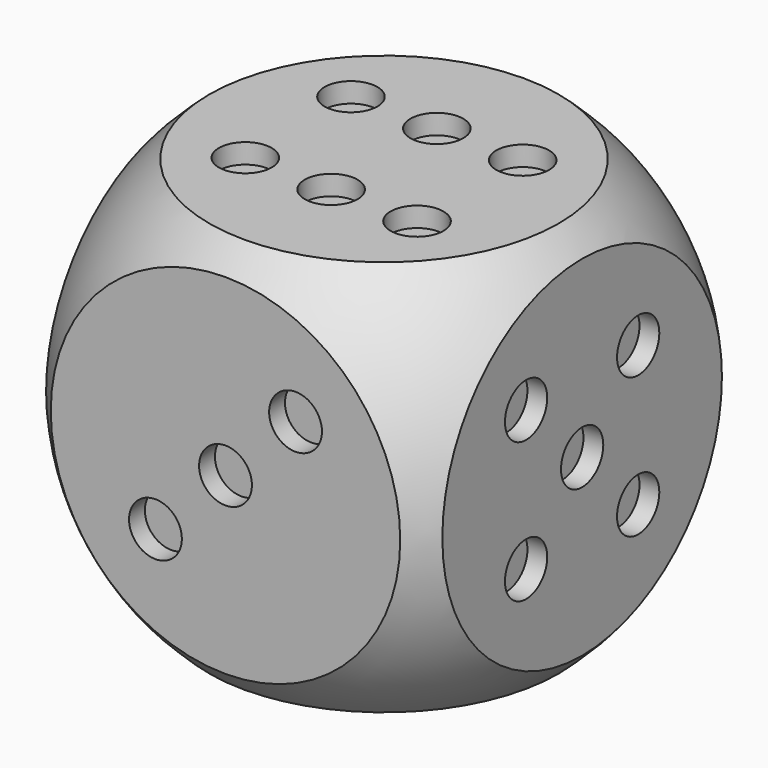
from build123d import *

# Parameters (mm, degrees)
F0_W      = 30
F0_H      = 30
F1_DEPTH  = 15
F5_R      = 2
F6_DEPTH  = 1.5
F7_R      = 2
F8_DEPTH  = 1.5
F9_R      = 2
F10_DEPTH = 1.5
F11_R     = 2
F12_DEPTH = 1.5
F13_R     = 2
F14_DEPTH = 1.5
F15_R     = 2
F16_DEPTH = 1.5


with BuildPart() as f1:
    # F0 (on Top) → F1 (new body, symmetric)
    with BuildSketch(Plane.XY):
        Rectangle(F0_W, F0_H)
    extrude(amount=F1_DEPTH, both=True)


with BuildPart() as f3:
    # F2 (on Top) → F3 (revolve)
    with BuildSketch(Plane.XY):
        with BuildLine():
            ThreePointArc((0, -20), (20, 0), (0, 20))
            Line((0, 20), (0, -20))
        make_face()
    revolve(axis=Axis((0, 0, 0), (0, -1, 0)))


with BuildPart() as f1_1:
    add(f1.part)

    # F4: intersect F3
    add(f3.part, mode=Mode.INTERSECT)

    # F5 (on face) → F6 (cut)
    with BuildSketch(Plane(origin=(0, 0, -15), x_dir=(1, 0, 0), z_dir=(0, 0, -1))):
        Circle(F5_R)
    extrude(amount=-F6_DEPTH, mode=Mode.SUBTRACT)

    # F7 (on face) → F8 (cut)
    with BuildSketch(Plane.XY.offset(15)):
        with Locations((0, 5)):
            Circle(F7_R)
        with Locations((6.5, 5)):
            Circle(F7_R)
        with Locations((0, -5)):
            Circle(F7_R)
        with Locations((6.5, -5)):
            Circle(F7_R)
        with Locations((-6.5, -5)):
            Circle(F7_R)
        with Locations((-6.5, 5)):
            Circle(F7_R)
    extrude(amount=-F8_DEPTH, mode=Mode.SUBTRACT)

    # F9 (on face) → F10 (cut)
    with BuildSketch(Plane(origin=(-15, 0, 0), x_dir=(0, -1, 0), z_dir=(-1, 0, 0))):
        with Locations((5.303301, 5.303301)):
            Circle(F9_R)
        with Locations((-5.303301, -5.303301)):
            Circle(F9_R)
    extrude(amount=-F10_DEPTH, mode=Mode.SUBTRACT)

    # F11 (on face) → F12 (cut)
    with BuildSketch(Plane.YZ.offset(15)):
        with Locations((5.303301, 5.303301)):
            Circle(F11_R)
        Circle(F11_R)
        with Locations((-5.303301, 5.303301)):
            Circle(F11_R)
        with Locations((5.303301, -5.303301)):
            Circle(F11_R)
        with Locations((-5.303301, -5.303301)):
            Circle(F11_R)
    extrude(amount=-F12_DEPTH, mode=Mode.SUBTRACT)

    # F13 (on face) → F14 (cut)
    with BuildSketch(Plane.XZ.offset(15)):
        with Locations((5.303301, 5.303301)):
            Circle(F13_R)
        Circle(F13_R)
        with Locations((-5.303301, -5.303301)):
            Circle(F13_R)
    extrude(amount=-F14_DEPTH, mode=Mode.SUBTRACT)

    # F15 (on face) → F16 (cut)
    with BuildSketch(Plane(origin=(0, 15, 0), x_dir=(-1, 0, 0), z_dir=(0, 1, 0))):
        with Locations((5.303301, 5.303301)):
            Circle(F15_R)
        with Locations((-5.303301, 5.303301)):
            Circle(F15_R)
        with Locations((5.303301, -5.303301)):
            Circle(F15_R)
        with Locations((-5.303301, -5.303301)):
            Circle(F15_R)
    extrude(amount=-F16_DEPTH, mode=Mode.SUBTRACT)


solid = f1_1.part
